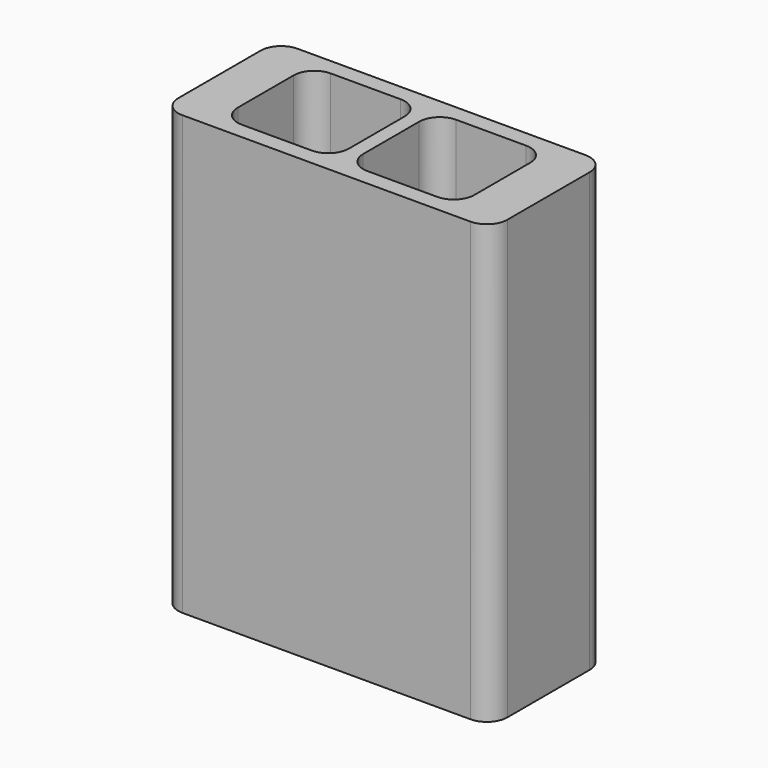
from build123d import *

# Parameters (mm, degrees)
F0_W     = 8
F0_H     = 7
F1_DEPTH = 3.5
F2_W     = 8
F2_H     = 7
F2_W_2   = 4.4
F2_H_2   = 3.4
F3_DEPTH = 3
F4_W     = 8
F4_H     = 7
F5_DEPTH = 3.5
F6_W     = 16
F6_H     = 7
F6_W_2   = 4.4
F6_H_2   = 3.4
F7_DEPTH = 1.3
F8_W     = 16
F8_H     = 7
F9_DEPTH = 10
F10_R    = 1
F11_R    = 1


with BuildPart() as f1:
    # F0 (on Top) → F1 (new body)
    with BuildSketch(Plane.XY):
        with Locations((-33.920105, 17.951032)):
            Rectangle(F0_W, F0_H)
        Polygon((-34.470105, 19.451032), (-30.470105, 19.451032), (-30.470105, 16.451032), (-34.470105, 16.451032), (-34.470105, 17.451032), (-36.470105, 17.451032), (-36.470105, 18.451032), (-34.470105, 18.451032), align=None, mode=Mode.SUBTRACT)
        Polygon((-29.370105, 21.451032), (-29.920105, 21.451032), (-29.920105, 14.451032), (-21.920105, 14.451032), (-21.920105, 21.451032), (-23.370105, 21.451032), (-25.370105, 21.451032), align=None)
        Polygon((-29.370105, 16.451032), (-29.370105, 19.451032), (-25.370105, 19.451032), (-25.370105, 18.451032), (-23.370105, 18.451032), (-23.370105, 17.451032), (-25.370105, 17.451032), (-25.370105, 16.451032), align=None, mode=Mode.SUBTRACT)
    extrude(amount=F1_DEPTH)

    # F2 (on face) → F3 (join)
    with BuildSketch(Plane.XY.offset(3.5)):
        with Locations((-33.920105, 17.951032)):
            Rectangle(F2_W, F2_H)
        with Locations((-32.470105, 17.951032)):
            Rectangle(F2_W_2, F2_H_2, mode=Mode.SUBTRACT)
        with Locations((-25.920105, 17.951032)):
            Rectangle(F2_W, F2_H)
        with Locations((-27.370105, 17.951032)):
            Rectangle(F2_W_2, F2_H_2, mode=Mode.SUBTRACT)
    extrude(amount=F3_DEPTH)

    # F4 (on face) → F5 (join)
    with BuildSketch(Plane.XY.offset(6.5)):
        with Locations((-25.920105, 17.951032)):
            Rectangle(F4_W, F4_H)
        Polygon((-28.070105, 19.651032), (-28.070105, 20.651032), (-27.370105, 20.651032), (-26.670105, 20.651032), (-26.670105, 19.651032), (-25.170105, 19.651032), (-25.170105, 16.251032), (-26.670105, 16.251032), (-26.670105, 15.251032), (-27.370105, 15.251032), (-28.070105, 15.251032), (-28.070105, 16.251032), (-29.570105, 16.251032), (-29.570105, 19.651032), align=None, mode=Mode.SUBTRACT)
        with Locations((-33.920105, 17.951032)):
            Rectangle(F4_W, F4_H)
        Polygon((-34.670105, 17.951032), (-34.670105, 19.651032), (-33.170105, 19.651032), (-33.170105, 20.651032), (-32.470105, 20.651032), (-31.770105, 20.651032), (-31.770105, 19.651032), (-30.270105, 19.651032), (-30.270105, 17.951032), (-30.270105, 16.251032), (-31.770105, 16.251032), (-31.770105, 15.251032), (-32.470105, 15.251032), (-33.170105, 15.251032), (-33.170105, 16.251032), (-34.670105, 16.251032), align=None, mode=Mode.SUBTRACT)
    extrude(amount=F5_DEPTH)

    # F6 (on face) → F7 (join)
    with BuildSketch(Plane.XY.offset(10)):
        with Locations((-29.920105, 17.951032)):
            Rectangle(F6_W, F6_H)
        with Locations((-32.470105, 17.951032)):
            Rectangle(F6_W_2, F6_H_2, mode=Mode.SUBTRACT)
        with Locations((-27.370105, 17.951032)):
            Rectangle(F6_W_2, F6_H_2, mode=Mode.SUBTRACT)
    extrude(amount=F7_DEPTH)

    # F8 (on face) → F9 (join)
    with BuildSketch(Plane.XY.offset(11.3)):
        with Locations((-29.920105, 17.951032)):
            Rectangle(F8_W, F8_H)
        Polygon((-30.270105, 20.651032), (-30.270105, 19.651032), (-30.270105, 16.251032), (-30.270105, 15.251032), (-35.670105, 15.251032), (-35.670105, 20.651032), align=None, mode=Mode.SUBTRACT)
        Polygon((-29.570105, 15.251032), (-29.570105, 16.251032), (-29.570105, 19.651032), (-29.570105, 20.651032), (-24.170105, 20.651032), (-24.170105, 15.251032), align=None, mode=Mode.SUBTRACT)
    extrude(amount=F9_DEPTH)

    # F10
    f10_edges = [f1.edges().sort_by_distance(p)[0] for p in [
        (-37.920105, 14.451032, 10.65),
        (-21.920105, 14.451032, 10.65),
        (-37.920105, 21.451032, 10.65),
        (-21.920105, 21.451032, 10.65),
    ]]
    fillet(f10_edges, radius=F10_R)

    # F11
    f11_edges = [f1.edges().sort_by_distance(p)[0] for p in [
        (-24.170105, 15.251032, 16.3),
        (-30.270105, 15.251032, 16.3),
        (-35.670105, 15.251032, 16.3),
        (-29.570105, 15.251032, 16.3),
        (-24.170105, 20.651032, 16.3),
        (-30.270105, 20.651032, 16.3),
        (-29.570105, 20.651032, 16.3),
        (-35.670105, 20.651032, 16.3),
    ]]
    fillet(f11_edges, radius=F11_R)


solid = f1.part
